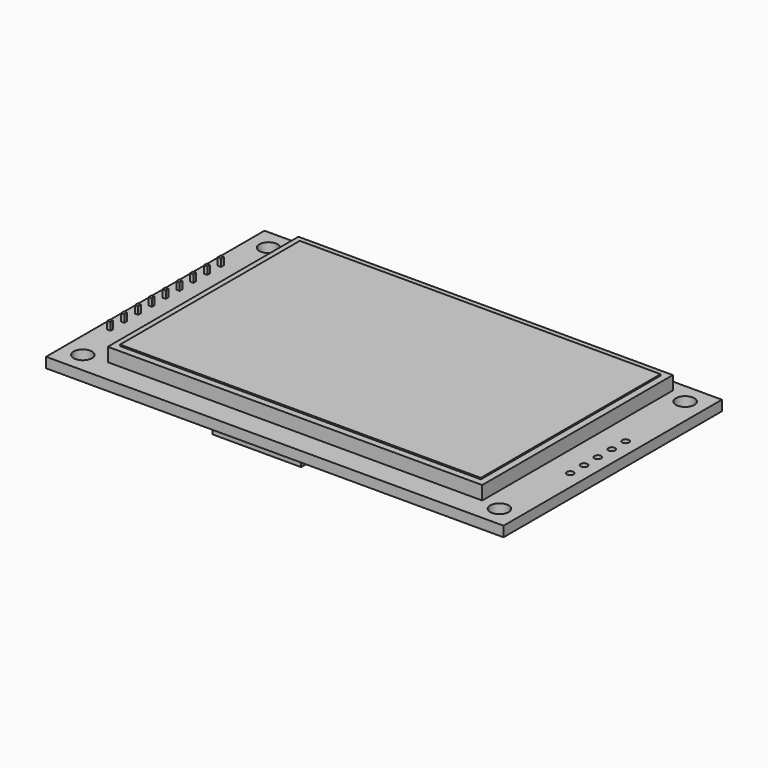
from build123d import *

# Parameters (mm, degrees)
BOX_W                  = 0.5
BOX_H                  = 0.5
BOX_DEPTH              = 8
ARRAY_Y_COUNT          = 9
ARRAY_Y_PITCH          = 2.54
BOX001_W               = 1
BOX001_H               = 22
BOX001_DEPTH           = 1.5
BOX004_W               = 10
BOX004_H               = 10
BOX004_DEPTH           = 2
BOX004_PLACEMENT_ANGLE = 45
BOX003_W               = 10
BOX003_H               = 10
BOX003_DEPTH           = 2
BOX002_W               = 13
BOX002_H               = 10
BOX002_DEPTH           = 2
BOX005_W               = 55
BOX005_H               = 35
BOX005_DEPTH           = 2
BOX006_W               = 53
BOX006_H               = 33
BOX006_DEPTH           = 2
CYLINDER004_R          = 0.5
CYLINDER004_DEPTH      = 10
ARRAY001_Y_COUNT       = 5
ARRAY001_Y_PITCH       = 2.54
CYLINDER001_R          = 1.35
CYLINDER001_DEPTH      = 10
CYLINDER002_R          = 1.35
CYLINDER002_DEPTH      = 10
CYLINDER003_R          = 1.35
CYLINDER003_DEPTH      = 10
CYLINDER_R             = 1.35
CYLINDER_DEPTH         = 10
SKETCH_W               = 67.2
SKETCH_H               = 40.1
PAD_DEPTH              = 1.5


with BuildPart() as array:
    # Box → Box (new body)
    with BuildSketch(Plane.XY.offset(-4)):
        with Locations((0.25, 0.25)):
            Rectangle(BOX_W, BOX_H)
    extrude(amount=BOX_DEPTH)

    # Array Y: Array ×9


with BuildPart() as array_1:
    add(array.part)
    with Locations(*[(0, -i * ARRAY_Y_PITCH, 0) for i in range(1, ARRAY_Y_COUNT)]):
        add(array.part)


with BuildPart() as array_2:
    # Array placement: moved
    add(array_1.part.moved(Location((-0.25, -0.25, 0))))


with BuildPart() as kub001:
    # Box001 → Box001 (new body)
    with BuildSketch(Plane(origin=(-0.45, -21, 0.4), x_dir=(1, 0, 0), z_dir=(0, 0, 1))):
        with Locations((0.5, 11)):
            Rectangle(BOX001_W, BOX001_H)
    extrude(amount=BOX001_DEPTH)


with BuildPart() as kub004:
    # Box004 → Box004 (new body)
    with BuildSketch(Plane.XY):
        with Locations((5, 5)):
            Rectangle(BOX004_W, BOX004_H)
    extrude(amount=BOX004_DEPTH)


with BuildPart() as kub004_1:
    # Box004 placement: moved
    add(kub004.part.moved(Location((15, 13, -1.4))).rotate(Axis((15, 13, -1.4), (0, 0, 1)), BOX004_PLACEMENT_ANGLE))


with BuildPart() as kub003:
    # Box003 → Box003 (new body)
    with BuildSketch(Plane(origin=(8, 20, -1.4), x_dir=(1, 0, 0), z_dir=(0, 0, 1))):
        with Locations((5, 5)):
            Rectangle(BOX003_W, BOX003_H)
    extrude(amount=BOX003_DEPTH)


with BuildPart() as sd_pocket:
    # Box002 → Box002 (new body)
    with BuildSketch(Plane(origin=(-3, 13, -1.4), x_dir=(1, 0, 0), z_dir=(0, 0, 1))):
        with Locations((6.5, 5)):
            Rectangle(BOX002_W, BOX002_H)
    extrude(amount=BOX002_DEPTH)

    # Cut: cut Kub003
    add(kub003.part, mode=Mode.SUBTRACT)

    # Cut001: cut Kub004
    add(kub004_1.part, mode=Mode.SUBTRACT)


with BuildPart() as sd_pocket_1:
    # Cut001 placement: moved
    add(sd_pocket.part.moved(Location((25, -42, 1.4))))


with BuildPart() as display_frame:
    # Box005 → Box005 (new body)
    with BuildSketch(Plane(origin=(5, -27, 3), x_dir=(1, 0, 0), z_dir=(0, 0, 1))):
        with Locations((27.5, 17.5)):
            Rectangle(BOX005_W, BOX005_H)
    extrude(amount=BOX005_DEPTH)


with BuildPart() as display_element:
    # Box006 → Box006 (new body)
    with BuildSketch(Plane(origin=(6, -26, 3.2), x_dir=(1, 0, 0), z_dir=(0, 0, 1))):
        with Locations((26.5, 16.5)):
            Rectangle(BOX006_W, BOX006_H)
    extrude(amount=BOX006_DEPTH)


with BuildPart() as array001:
    # Cylinder004 → Cylinder004 (new body)
    with BuildSketch(Plane(origin=(0, -5.08, 0), x_dir=(1, 0, 0), z_dir=(0, 0, 1))):
        Circle(CYLINDER004_R)
    extrude(amount=CYLINDER004_DEPTH)

    # Array001 Y: Array001 ×5


with BuildPart() as array001_1:
    add(array001.part)
    with Locations(*[(0, i * ARRAY001_Y_PITCH, 0) for i in range(1, ARRAY001_Y_COUNT)]):
        add(array001.part)


with BuildPart() as array001_2:
    # Array001 placement: moved
    add(array001_1.part.moved(Location((63.52, -10.16, 0))))


with BuildPart() as hole002:
    # Cylinder001 → Cylinder001 (new body)
    with BuildSketch(Plane(origin=(1.5, -27.21, 1.4), x_dir=(1, 0, 0), z_dir=(0, 0, 1))):
        Circle(CYLINDER001_R)
    extrude(amount=CYLINDER001_DEPTH)


with BuildPart() as hole003:
    # Cylinder002 → Cylinder002 (new body)
    with BuildSketch(Plane(origin=(62.7, -27.21, 1.4), x_dir=(1, 0, 0), z_dir=(0, 0, 1))):
        Circle(CYLINDER002_R)
    extrude(amount=CYLINDER002_DEPTH)


with BuildPart() as hole004:
    # Cylinder003 → Cylinder003 (new body)
    with BuildSketch(Plane(origin=(62.7, 6.89, 1.4), x_dir=(1, 0, 0), z_dir=(0, 0, 1))):
        Circle(CYLINDER003_R)
    extrude(amount=CYLINDER003_DEPTH)


with BuildPart() as hole001:
    # Cylinder → Cylinder (new body)
    with BuildSketch(Plane(origin=(1.5, 6.89, 1.4), x_dir=(1, 0, 0), z_dir=(0, 0, 1))):
        Circle(CYLINDER_R)
    extrude(amount=CYLINDER_DEPTH)


with BuildPart() as pcb:
    # Sketch → Pad (new body)
    with BuildSketch(Plane.XY):
        with Locations((32.1, -10.16)):
            Rectangle(SKETCH_W, SKETCH_H)
    extrude(amount=PAD_DEPTH)


with BuildPart() as pcb_1:
    # Body placement: moved
    add(pcb.part.moved(Location((0, 0, 1.4))))

    # Cut002: cut Hole001
    add(hole001.part, mode=Mode.SUBTRACT)

    # Cut003: cut Hole004
    add(hole004.part, mode=Mode.SUBTRACT)

    # Cut004: cut Hole003
    add(hole003.part, mode=Mode.SUBTRACT)

    # Cut005: cut Hole002
    add(hole002.part, mode=Mode.SUBTRACT)

    # Cut006: cut Array001
    add(array001_2.part, mode=Mode.SUBTRACT)


solid = Compound([array_2.part, kub001.part, sd_pocket_1.part, display_frame.part, display_element.part, pcb_1.part])
